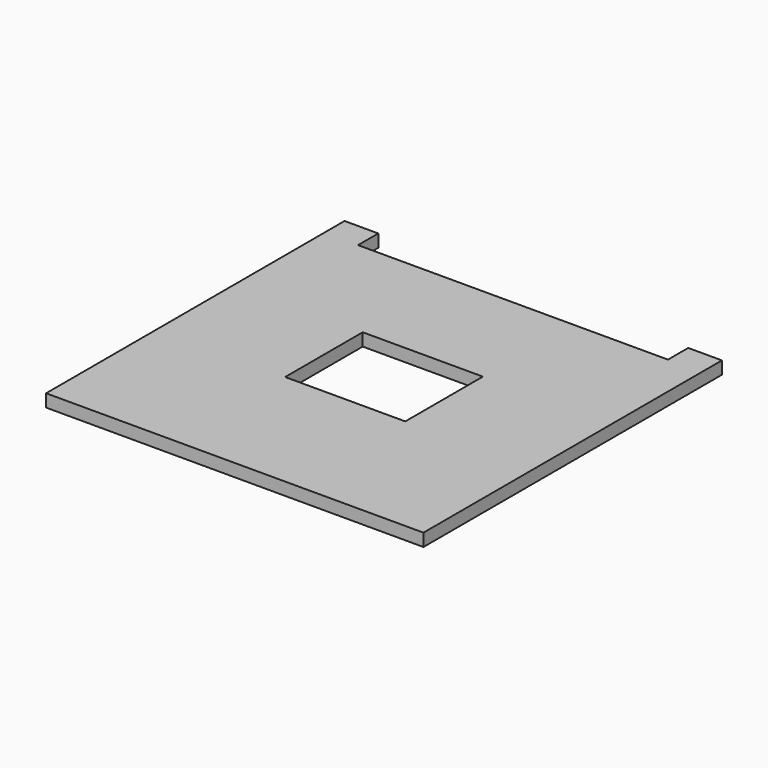
from build123d import *

# Parameters (mm, degrees)
F0_W     = 180.975
F0_H     = 146.05
F1_DEPTH = 19.05


with BuildPart() as f1:
    # F0 (on Top) → F1 (new body)
    with BuildSketch(Plane.XY):
        Polygon((284.226, -280.9875), (284.226, 280.9875), (233.426, 280.9875), (233.426, 242.8875), (-233.426, 242.8875), (-233.426, 280.9875), (-284.226, 280.9875), (-284.226, -280.9875), align=None)
        Rectangle(F0_W, F0_H, mode=Mode.SUBTRACT)
    extrude(amount=F1_DEPTH)


solid = f1.part
